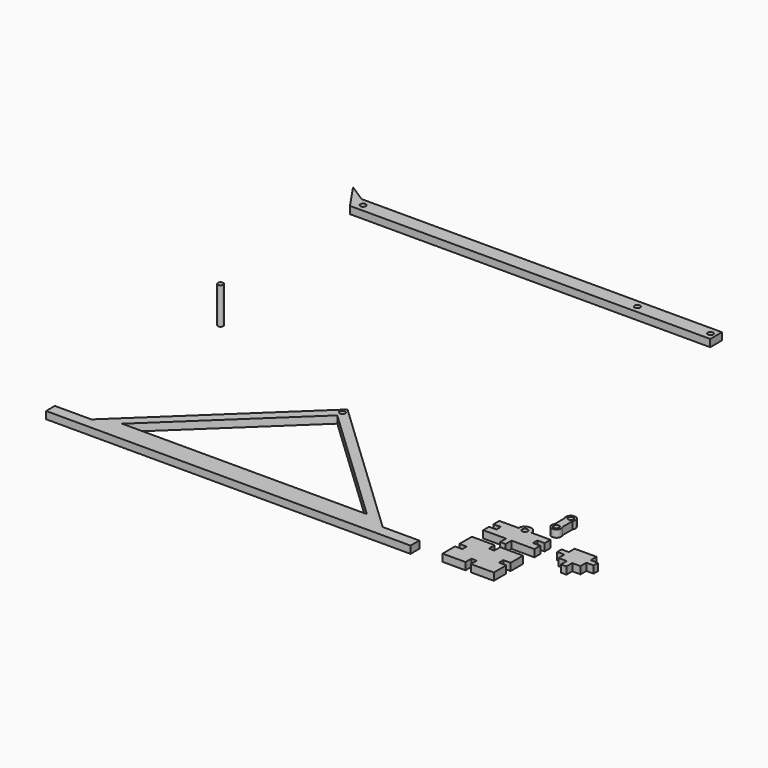
from build123d import *

# Parameters (mm, degrees)
F0_R     = 1.5
F0_W     = 197
F0_H     = 8
F0_R_2   = 1.531456
F1_DEPTH = 4
F0_R_3   = 1.45
F2_DEPTH = 20


with BuildPart() as f1:
    # F0 (on Top) → F1 (new body)
    with BuildSketch(Plane.XY):
        Polygon((42.439127, 3), (-116.839178, 3), (-136.839178, 3), (-136.839178, -3), (62.439127, -3), (62.439127, 3), align=None)
        Polygon((90.262927, 19.780939), (77.762927, 19.780939), (77.762927, 11.280939), (81.762927, 11.280939), (81.762927, 8.280939), (77.762927, 8.280939), (77.762927, -0.219061), (90.262927, -0.219061), (90.262927, 3.780939), (93.262927, 3.780939), (93.262927, -0.219061), (105.762927, -0.219061), (105.762927, 8.280939), (101.762927, 8.280939), (101.762927, 11.280939), (105.762927, 11.280939), (105.762927, 19.780939), (93.262927, 19.780939), (93.262927, 15.780939), (90.262927, 15.780939), align=None)
        Polygon((-37.200025, 78.5), (-116.839178, 3), (42.439127, 3), align=None)
        Polygon((-104.096913, 8.08), (-37.200025, 71.5), (29.696863, 8.08), align=None, mode=Mode.SUBTRACT)
        with Locations((-37.200025, 75)):
            Circle(F0_R, mode=Mode.SUBTRACT)
        Polygon((-154, 226.162977), (-154, 234.162977), (-163.742989, 240.479544), align=None)
        with Locations((-55.5, 230.162977)):
            Rectangle(F0_W, F0_H)
        with Locations((-150, 230.162977)):
            Circle(F0_R, mode=Mode.SUBTRACT)
        with Locations((0, 230.162977)):
            Circle(F0_R_2, mode=Mode.SUBTRACT)
        with Locations((40, 230.162977)):
            Circle(F0_R, mode=Mode.SUBTRACT)
        Polygon((130.968291, 38.543519), (118.968291, 38.543519), (118.968291, 34.543519), (115.01653, 34.543519), (115.01653, 31.543519), (118.968291, 31.543519), (118.968291, 27.543519), (123.468291, 27.543519), (123.468291, 23.543519), (126.468291, 23.543519), (126.468291, 27.543519), (130.968291, 27.543519), (130.968291, 31.543519), (134.920052, 31.543519), (134.920052, 34.543519), (130.968291, 34.543519), align=None)
        with BuildLine():
            Line((88.262927, 38.543519), (77.762927, 38.543519))
            Line((77.762927, 38.543519), (77.762927, 34.543519))
            Line((77.762927, 34.543519), (81.762927, 34.543519))
            Line((81.762927, 34.543519), (81.762927, 31.543519))
            Line((81.762927, 31.543519), (77.762927, 31.543519))
            Line((77.762927, 31.543519), (77.762927, 27.543519))
            Line((77.762927, 27.543519), (90.262927, 27.543519))
            Line((90.262927, 27.543519), (90.262927, 23.543519))
            Line((90.262927, 23.543519), (93.262927, 23.543519))
            Line((93.262927, 23.543519), (93.262927, 27.543519))
            Line((93.262927, 27.543519), (105.762927, 27.543519))
            Line((105.762927, 27.543519), (105.762927, 31.543519))
            Line((105.762927, 31.543519), (101.762927, 31.543519))
            Line((101.762927, 31.543519), (101.762927, 34.543519))
            Line((101.762927, 34.543519), (105.762927, 34.543519))
            Line((105.762927, 34.543519), (105.762927, 38.543519))
            Line((105.762927, 38.543519), (95.262927, 38.543519))
            Line((95.262927, 38.543519), (93.262927, 38.543519))
            ThreePointArc((93.262927, 38.543519), (91.762927, 37.043519), (90.262927, 38.543519))
            Line((90.262927, 38.543519), (88.262927, 38.543519))
        make_face()
        with BuildLine():
            ThreePointArc((95.262927, 38.543519), (91.762927, 42.043519), (88.262927, 38.543519))
            Line((88.262927, 38.543519), (90.262927, 38.543519))
            ThreePointArc((90.262927, 38.543519), (91.762927, 40.043519), (93.262927, 38.543519))
            Line((93.262927, 38.543519), (95.262927, 38.543519))
        make_face()
        with BuildLine():
            ThreePointArc((102.342837, 57.941882), (100.179553, 61.970748), (98.01627, 57.941882))
            Line((98.01627, 57.941882), (98.01627, 50.999615))
            ThreePointArc((98.01627, 50.999615), (100.179553, 46.970748), (102.342837, 50.999615))
            Line((102.342837, 50.999615), (102.342837, 57.941882))
        make_face()
        with Locations((100.179553, 49.565965)):
            Circle(F0_R, mode=Mode.SUBTRACT)
        with Locations((100.179553, 59.375532)):
            Circle(F0_R, mode=Mode.SUBTRACT)
    extrude(amount=F1_DEPTH)


with BuildPart() as f2:
    # F0 (on Top) → F2 (new body)
    with BuildSketch(Plane.XY):
        with Locations((-132.954106, 111.415282)):
            Circle(F0_R_3)
    extrude(amount=F2_DEPTH)


solid = Compound([f1.part, f2.part])
